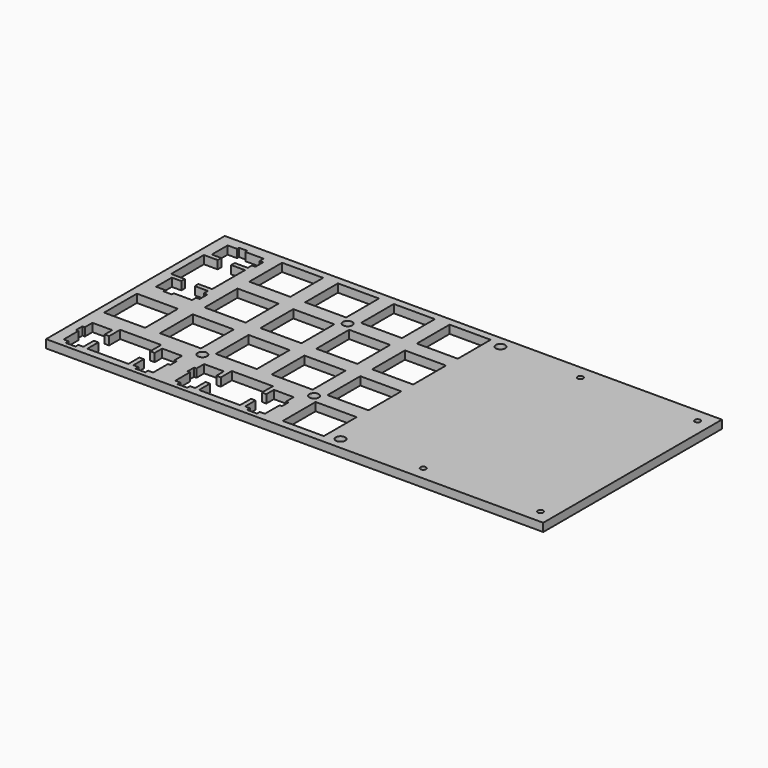
from build123d import *

# Parameters (mm, degrees)
SKETCH_W                 = 76.2
SKETCH_H                 = 169.6
PAD_DEPTH                = 2.8
SKETCH001_W              = 13.9993
SKETCH001_H              = 13.9993
SKETCH001_H_2            = 13.99946
SKETCH001_W_2            = 13.99955
SKETCH001_H_3            = 13.9994
POCKET_DEPTH             = 5
SKETCH002_R              = 1.6
POCKET001_DEPTH          = 2.801
SKETCH011_R              = 0.95
POCKET002_DEPTH          = 2.801
CLONE001_PLACEMENT_ANGLE = 90


with BuildPart() as part:
    # Sketch → Pad (new body)
    with BuildSketch(Plane.XY):
        with Locations((38.1, 84.8)):
            Rectangle(SKETCH_W, SKETCH_H)
    extrude(amount=PAD_DEPTH)

    # Sketch001 (on Face6 of Pad) → Pocket (cut)
    with BuildSketch(Plane.XY.offset(2.8)):
        with Locations((66.674265, 85.725757)):
            Rectangle(SKETCH001_W, SKETCH001_H)
        with Locations((47.624265, 85.725757)):
            Rectangle(SKETCH001_W, SKETCH001_H)
        Polygon((5.498385, 17.495607), (5.499755, 16.295307), (3.774465, 16.295307), (3.774465, 10.025207), (2.949005, 10.025207), (2.949005, 7.225037), (3.774465, 7.225037), (3.774465, 3.994937), (10.524115, 3.994937), (10.524115, 7.225037), (12.049615, 7.225037), (12.049615, 2.525947), (26.049015, 2.525947), (26.049015, 7.225037), (27.574515, 7.225037), (27.574515, 3.994937), (34.324215, 3.994937), (34.324215, 7.225037), (35.149615, 7.225037), (35.149615, 10.025207), (34.324215, 10.025207), (34.324215, 16.295307), (32.598915, 16.295307), (32.598915, 17.495607), (29.299815, 17.495607), (29.299815, 16.295307), (27.574515, 16.295307), (27.574515, 11.824907), (26.049015, 11.824907), (26.049015, 16.525407), (12.049615, 16.525407), (12.049615, 11.824907), (10.524115, 11.824907), (10.524115, 16.295307), (8.798765, 16.295307), (8.798765, 17.495607), align=None)
        with Locations((47.624265, 9.525677)):
            Rectangle(SKETCH001_W, SKETCH001_H_2)
        Polygon((64.375015, 35.151007), (64.375015, 34.325607), (61.145015, 34.325607), (61.145015, 27.575907), (64.375015, 27.575907), (64.375015, 26.050407), (59.674615, 26.050407), (59.674615, 12.050907), (64.375015, 12.050907), (64.375015, 10.525407), (61.145015, 10.525407), (61.145015, 3.775827), (64.375015, 3.775827), (64.375015, 2.950377), (67.174015, 2.950377), (67.174015, 3.775827), (73.443915, 3.775827), (73.443915, 5.501117), (74.644015, 5.501117), (74.644015, 8.800157), (73.443915, 8.800157), (73.443915, 10.525407), (68.974915, 10.525407), (68.974915, 12.050907), (73.673915, 12.050907), (73.673915, 26.050407), (68.974915, 26.050407), (68.974915, 27.575907), (73.443915, 27.575907), (73.443915, 29.301207), (74.644015, 29.301207), (74.644015, 32.600207), (73.443915, 32.600207), (73.443915, 34.325607), (67.174015, 34.325607), (67.174015, 35.151007), align=None)
        with Locations((9.52434, 28.575607)):
            Rectangle(SKETCH001_W_2, SKETCH001_H_3)
        with Locations((28.574265, 28.575607)):
            Rectangle(SKETCH001_W, SKETCH001_H_3)
        with Locations((47.624265, 28.575607)):
            Rectangle(SKETCH001_W, SKETCH001_H_3)
        with Locations((9.52434, 47.625757)):
            Rectangle(SKETCH001_W_2, SKETCH001_H)
        with Locations((28.574265, 47.625757)):
            Rectangle(SKETCH001_W, SKETCH001_H)
        with Locations((47.624265, 47.625757)):
            Rectangle(SKETCH001_W, SKETCH001_H)
        Polygon((64.375015, 73.251007), (64.375015, 72.425507), (61.145015, 72.425507), (61.145015, 65.675807), (64.375015, 65.675807), (64.375015, 64.150407), (59.674615, 64.150407), (59.674615, 50.151107), (64.375015, 50.151107), (64.375015, 48.625307), (61.145015, 48.625307), (61.145015, 41.876007), (64.375015, 41.876007), (64.375015, 41.050507), (67.174015, 41.050507), (67.174015, 41.876007), (73.443915, 41.876007), (73.443915, 43.601007), (74.644015, 43.601007), (74.644015, 46.900207), (73.443915, 46.900207), (73.443915, 48.625307), (68.974915, 48.625307), (68.974915, 50.151107), (73.673915, 50.151107), (73.673915, 64.150407), (68.974915, 64.150407), (68.974915, 65.675807), (73.443915, 65.675807), (73.443915, 67.401207), (74.644015, 67.401207), (74.644015, 70.701807), (73.443915, 70.700407), (73.443915, 72.425507), (67.174015, 72.425507), (67.174015, 73.251007), align=None)
        with Locations((9.52434, 66.675757)):
            Rectangle(SKETCH001_W_2, SKETCH001_H)
        with Locations((28.574265, 66.675757)):
            Rectangle(SKETCH001_W, SKETCH001_H)
        with Locations((47.624265, 66.675757)):
            Rectangle(SKETCH001_W, SKETCH001_H)
        with Locations((9.52434, 85.725757)):
            Rectangle(SKETCH001_W_2, SKETCH001_H)
        with Locations((28.574265, 85.725757)):
            Rectangle(SKETCH001_W, SKETCH001_H)
    extrude(amount=-POCKET_DEPTH, mode=Mode.SUBTRACT)

    # Sketch002 (on Face5 of Pocket) → Pocket001 (cut, through all)
    with BuildSketch(Plane.XY.offset(2.8)):
        with Locations((19.049365, 57.150757)):
            Circle(SKETCH002_R)
        with Locations((57.149265, 76.200757)):
            Circle(SKETCH002_R)
        with Locations((57.149265, 38.100707)):
            Circle(SKETCH002_R)
        with Locations((4, 97.25)):
            Circle(SKETCH002_R)
        with Locations((72.2, 97.25)):
            Circle(SKETCH002_R)
    extrude(amount=-POCKET001_DEPTH, mode=Mode.SUBTRACT)

    # Sketch011 (on Face5 of Pocket001) → Pocket002 (cut, through all)
    with BuildSketch(Plane.XY.offset(2.8)):
        with Locations((4.6, 125)):
            Circle(SKETCH011_R)
        with Locations((71.6, 125)):
            Circle(SKETCH011_R)
        with Locations((4.6, 165)):
            Circle(SKETCH011_R)
        with Locations((71.6, 165)):
            Circle(SKETCH011_R)
    extrude(amount=-POCKET002_DEPTH, mode=Mode.SUBTRACT)


with BuildPart() as part_1:
    # Clone001 placement: moved
    add(part.part.moved(Location((0.1, 76.1, -2.8))).rotate(Axis((0.1, 76.1, -2.8), (0, 0, -1)), CLONE001_PLACEMENT_ANGLE))


solid = part_1.part
